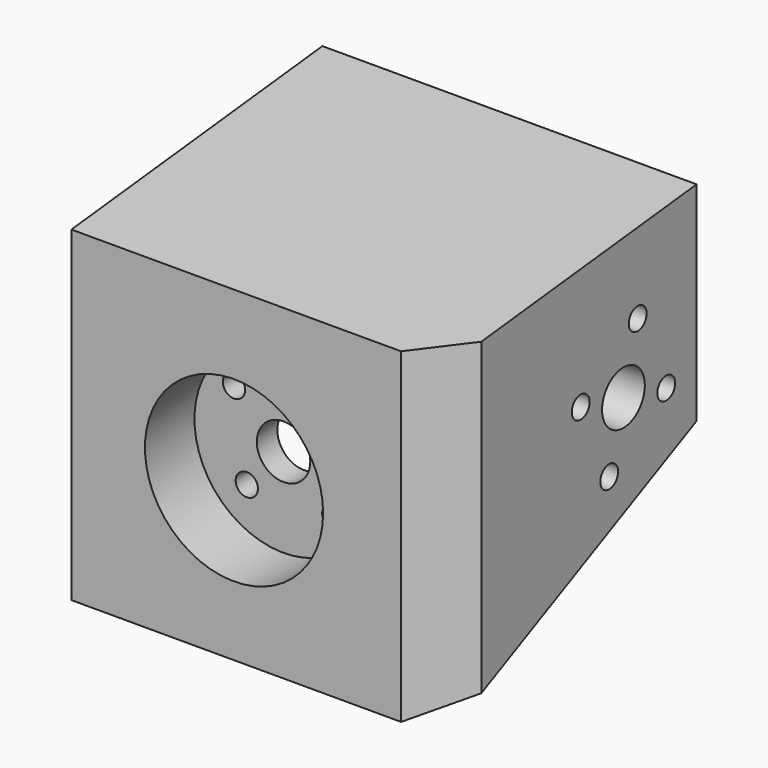
from build123d import *

# Parameters (mm, degrees)
CYLINDER067_R             = 1.75
CYLINDER067_DEPTH         = 22
CYLINDER067_PITCH_ANGLE   = 90
CYLINDER061_R             = 1.25
CYLINDER061_DEPTH         = 22
CYLINDER061_PITCH_ANGLE   = 90
CYLINDER062_R             = 1.25
CYLINDER062_DEPTH         = 22
CYLINDER062_PITCH_ANGLE   = 90
CYLINDER060_R             = 1.25
CYLINDER060_DEPTH         = 22
CYLINDER060_PITCH_ANGLE   = 90
CYLINDER059_R             = 1.25
CYLINDER059_DEPTH         = 22
CYLINDER059_PITCH_ANGLE   = 90
CYLINDER065_R             = 1.25
CYLINDER065_DEPTH         = 22
CYLINDER065_PITCH_ANGLE   = 90
CYLINDER066_R             = 1.25
CYLINDER066_DEPTH         = 22
CYLINDER066_PITCH_ANGLE   = 90
CYLINDER064_R             = 1.25
CYLINDER064_DEPTH         = 22
CYLINDER064_PITCH_ANGLE   = 90
CYLINDER063_R             = 1.25
CYLINDER063_DEPTH         = 22
CYLINDER063_PITCH_ANGLE   = 90
FUSION047_ROLL_ANGLE      = 34
FUSION047_PLACEMENT_ANGLE = -90
CYLINDER058_R             = 3
CYLINDER058_DEPTH         = 22
CYLINDER058_PITCH_ANGLE   = 90
CYLINDER057_R             = 3
CYLINDER057_DEPTH         = 13
CYLINDER057_ROLL_ANGLE    = 90
CYLINDER056_R             = 10
CYLINDER056_DEPTH         = 10
CYLINDER056_ROLL_ANGLE    = 90
PAD007_DEPTH              = 34
PAD005_DEPTH              = 42
CHAMFER104_SIZE           = 5
CHAMFER105_SIZE           = 5


with BuildPart() as cilindro011:
    # Cylinder067 → Cylinder067 (new body)
    with BuildSketch(Plane.XY):
        Circle(CYLINDER067_R)
    extrude(amount=CYLINDER067_DEPTH)


with BuildPart() as cilindro011_1:
    # Cylinder067 pitch: moved
    add(cilindro011.part.rotate(Axis((0, 0, 0), (0, 1, 0)), CYLINDER067_PITCH_ANGLE))


with BuildPart() as cilindro011_2:
    # Cylinder067 placement: moved
    add(cilindro011_1.part.moved(Location((-4.75, -32, 125.75))))


with BuildPart() as cilindro005:
    # Cylinder061 → Cylinder061 (new body)
    with BuildSketch(Plane.XY):
        Circle(CYLINDER061_R)
    extrude(amount=CYLINDER061_DEPTH)


with BuildPart() as cilindro005_1:
    # Cylinder061 pitch: moved
    add(cilindro005.part.rotate(Axis((0, 0, 0), (0, 1, 0)), CYLINDER061_PITCH_ANGLE))


with BuildPart() as cilindro005_2:
    # Cylinder061 placement: moved
    add(cilindro005_1.part.moved(Location((20.25, -38, 124.25))))


with BuildPart() as cilindro006:
    # Cylinder062 → Cylinder062 (new body)
    with BuildSketch(Plane.XY):
        Circle(CYLINDER062_R)
    extrude(amount=CYLINDER062_DEPTH)


with BuildPart() as cilindro006_1:
    # Cylinder062 pitch: moved
    add(cilindro006.part.rotate(Axis((0, 0, 0), (0, 1, 0)), CYLINDER062_PITCH_ANGLE))


with BuildPart() as cilindro006_2:
    # Cylinder062 placement: moved
    add(cilindro006_1.part.moved(Location((20.25, -26, 127.25))))


with BuildPart() as cilindro004:
    # Cylinder060 → Cylinder060 (new body)
    with BuildSketch(Plane.XY):
        Circle(CYLINDER060_R)
    extrude(amount=CYLINDER060_DEPTH)


with BuildPart() as cilindro004_1:
    # Cylinder060 pitch: moved
    add(cilindro004.part.rotate(Axis((0, 0, 0), (0, 1, 0)), CYLINDER060_PITCH_ANGLE))


with BuildPart() as cilindro004_2:
    # Cylinder060 placement: moved
    add(cilindro004_1.part.moved(Location((20.25, -30, 118.75))))


with BuildPart() as fusion046:
    # Cylinder059 → Cylinder059 (new body)
    with BuildSketch(Plane.XY):
        Circle(CYLINDER059_R)
    extrude(amount=CYLINDER059_DEPTH)


with BuildPart() as fusion046_1:
    # Cylinder059 pitch: moved
    add(fusion046.part.rotate(Axis((0, 0, 0), (0, 1, 0)), CYLINDER059_PITCH_ANGLE))


with BuildPart() as fusion046_2:
    # Cylinder059 placement: moved
    add(fusion046_1.part.moved(Location((20.25, -34, 132.75))))

    # Fusion046: union Cilindro005, Cilindro006, Cilindro004
    add(cilindro005_2.part)
    add(cilindro006_2.part)
    add(cilindro004_2.part)


with BuildPart() as cilindro009:
    # Cylinder065 → Cylinder065 (new body)
    with BuildSketch(Plane.XY):
        Circle(CYLINDER065_R)
    extrude(amount=CYLINDER065_DEPTH)


with BuildPart() as cilindro009_1:
    # Cylinder065 pitch: moved
    add(cilindro009.part.rotate(Axis((0, 0, 0), (0, 1, 0)), CYLINDER065_PITCH_ANGLE))


with BuildPart() as cilindro009_2:
    # Cylinder065 placement: moved
    add(cilindro009_1.part.moved(Location((20.25, -38, 124.25))))


with BuildPart() as cilindro010:
    # Cylinder066 → Cylinder066 (new body)
    with BuildSketch(Plane.XY):
        Circle(CYLINDER066_R)
    extrude(amount=CYLINDER066_DEPTH)


with BuildPart() as cilindro010_1:
    # Cylinder066 pitch: moved
    add(cilindro010.part.rotate(Axis((0, 0, 0), (0, 1, 0)), CYLINDER066_PITCH_ANGLE))


with BuildPart() as cilindro010_2:
    # Cylinder066 placement: moved
    add(cilindro010_1.part.moved(Location((20.25, -26, 127.25))))


with BuildPart() as cilindro008:
    # Cylinder064 → Cylinder064 (new body)
    with BuildSketch(Plane.XY):
        Circle(CYLINDER064_R)
    extrude(amount=CYLINDER064_DEPTH)


with BuildPart() as cilindro008_1:
    # Cylinder064 pitch: moved
    add(cilindro008.part.rotate(Axis((0, 0, 0), (0, 1, 0)), CYLINDER064_PITCH_ANGLE))


with BuildPart() as cilindro008_2:
    # Cylinder064 placement: moved
    add(cilindro008_1.part.moved(Location((20.25, -30, 118.75))))


with BuildPart() as fusion047:
    # Cylinder063 → Cylinder063 (new body)
    with BuildSketch(Plane.XY):
        Circle(CYLINDER063_R)
    extrude(amount=CYLINDER063_DEPTH)


with BuildPart() as fusion047_1:
    # Cylinder063 pitch: moved
    add(fusion047.part.rotate(Axis((0, 0, 0), (0, 1, 0)), CYLINDER063_PITCH_ANGLE))


with BuildPart() as fusion047_2:
    # Cylinder063 placement: moved
    add(fusion047_1.part.moved(Location((20.25, -34, 132.75))))

    # Fusion047: union Cilindro009, Cilindro010, Cilindro008
    add(cilindro009_2.part)
    add(cilindro010_2.part)
    add(cilindro008_2.part)


with BuildPart() as fusion047_3:
    # Fusion047 roll: moved
    add(fusion047_2.part.rotate(Axis((0, 0, 0), (1, 0, 0)), FUSION047_ROLL_ANGLE))


with BuildPart() as fusion047_4:
    # Fusion047 placement: moved
    add(fusion047_3.part.moved(Location((114.107998, 21, 33.646227))).rotate(Axis((114.107998, 21, 33.646227), (0, 0, 1)), FUSION047_PLACEMENT_ANGLE))


with BuildPart() as cilindro002:
    # Cylinder058 → Cylinder058 (new body)
    with BuildSketch(Plane.XY):
        Circle(CYLINDER058_R)
    extrude(amount=CYLINDER058_DEPTH)


with BuildPart() as cilindro002_1:
    # Cylinder058 pitch: moved
    add(cilindro002.part.rotate(Axis((0, 0, 0), (0, 1, 0)), CYLINDER058_PITCH_ANGLE))


with BuildPart() as cilindro002_2:
    # Cylinder058 placement: moved
    add(cilindro002_1.part.moved(Location((20.25, -32, 125.75))))


with BuildPart() as cilindro001:
    # Cylinder057 → Cylinder057 (new body)
    with BuildSketch(Plane.XY):
        Circle(CYLINDER057_R)
    extrude(amount=CYLINDER057_DEPTH)


with BuildPart() as cilindro001_1:
    # Cylinder057 roll: moved
    add(cilindro001.part.rotate(Axis((0, 0, 0), (1, 0, 0)), CYLINDER057_ROLL_ANGLE))


with BuildPart() as cilindro001_2:
    # Cylinder057 placement: moved
    add(cilindro001_1.part.moved(Location((17.25, -6, 120))))


with BuildPart() as cilindro:
    # Cylinder056 → Cylinder056 (new body)
    with BuildSketch(Plane.XY):
        Circle(CYLINDER056_R)
    extrude(amount=CYLINDER056_DEPTH)


with BuildPart() as cilindro_1:
    # Cylinder056 roll: moved
    add(cilindro.part.rotate(Axis((0, 0, 0), (1, 0, 0)), CYLINDER056_ROLL_ANGLE))


with BuildPart() as cilindro_2:
    # Cylinder056 placement: moved
    add(cilindro_1.part.moved(Location((17.25, -4, 120))))


with BuildPart() as pad007:
    # Sketch012 → Pad007 (new body)
    with BuildSketch(Plane(origin=(3, -12, -1), x_dir=(0, 1, 0), z_dir=(1, 0, 0))):
        Polygon((-4.882067, 101.940956), (-4.882067, 138.559921), (-40.571098, 142.373672), (-40.571098, 120.688431), align=None)
    extrude(amount=PAD007_DEPTH)


with BuildPart() as clone_of_chamfer105:
    # Sketch010 → Pad005 (new body)
    with BuildSketch(Plane.YZ.offset(-1)):
        Polygon((-7.053021, 102.221077), (-7.053021, 138.840042), (-42.260719, 142.653793), (-42.260719, 119.265137), align=None)
    extrude(amount=PAD005_DEPTH)

    # Cut085: cut Pad007
    add(pad007.part, mode=Mode.SUBTRACT)

    # Cut086: cut Cilindro
    add(cilindro_2.part, mode=Mode.SUBTRACT)

    # Cut087: cut Cilindro001
    add(cilindro001_2.part, mode=Mode.SUBTRACT)

    # Chamfer104
    chamfer104_edges = [clone_of_chamfer105.edges().sort_by_distance(p)[0] for p in [
        (20, -16.882067, 106.979322),
    ]]
    chamfer(chamfer104_edges, length=CHAMFER104_SIZE)

    # Cut088: cut Cilindro002
    add(cilindro002_2.part, mode=Mode.SUBTRACT)

    # Cut089: cut Fusion047
    add(fusion047_4.part, mode=Mode.SUBTRACT)

    # Cut090: cut Fusion046
    add(fusion046_2.part, mode=Mode.SUBTRACT)

    # Cut091: cut Cilindro011
    add(cilindro011_2.part, mode=Mode.SUBTRACT)

    # Chamfer105
    chamfer105_edges = [clone_of_chamfer105.edges().sort_by_distance(p)[0] for p in [
        (41, -7.053021, 120.530559),
    ]]
    chamfer(chamfer105_edges, length=CHAMFER105_SIZE)


with BuildPart() as part_mirroring007008:
    # Part__Mirroring007008: instance of Clone of Chamfer105
    add(clone_of_chamfer105.part.mirror(Plane(origin=(0, 0, 0), x_dir=(1, 0, 0), z_dir=(0, 1, 0))))


with BuildPart() as part_mirroring007008_1:
    # Part__Mirroring007008 placement: moved
    add(part_mirroring007008.part.moved(Location((0, 72, 0))))


solid = part_mirroring007008_1.part
